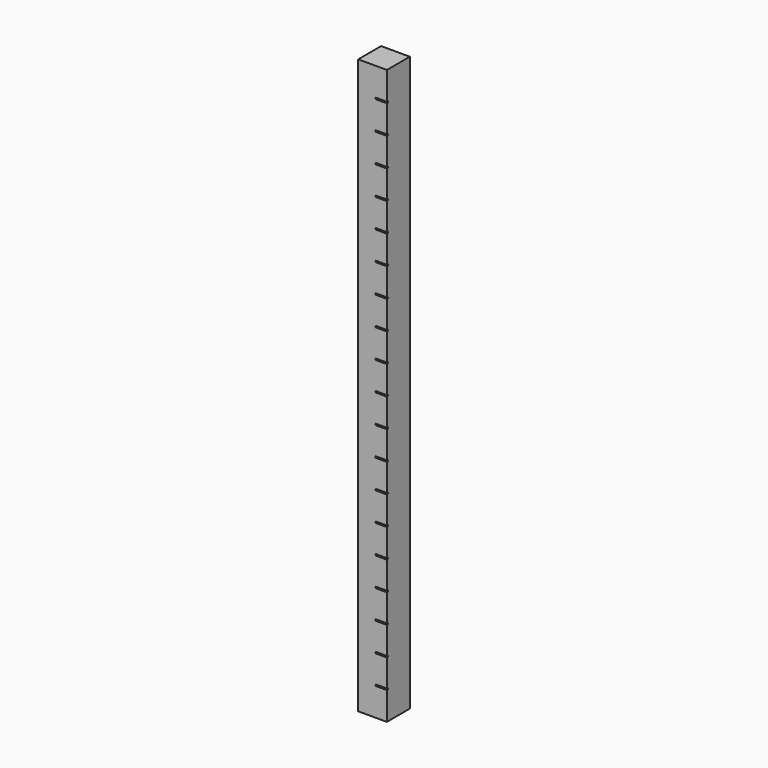
from build123d import *

# Parameters (mm, degrees)
F0_W     = 10
F0_H     = 10
F1_DEPTH = 200
F2_W     = 4
F2_H     = 0.5
F3_DEPTH = 0.5


with BuildPart() as f1:
    # F0 (on Top) → F1 (new body)
    with BuildSketch(Plane.XY):
        with Locations((5, 5)):
            Rectangle(F0_W, F0_H)
    extrude(amount=F1_DEPTH)

    # F2 (on face) → F3 (cut)
    with BuildSketch(Plane.XZ):
        Polygon((6, 9.75), (10, 9.75), (10, 10), (10, 10.25), (6, 10.25), align=None)
        with Locations((8, 20)):
            Rectangle(F2_W, F2_H)
        with Locations((8, 30)):
            Rectangle(F2_W, F2_H)
        with Locations((8, 40)):
            Rectangle(F2_W, F2_H)
        with Locations((8, 50)):
            Rectangle(F2_W, F2_H)
        with Locations((8, 60)):
            Rectangle(F2_W, F2_H)
        with Locations((8, 70)):
            Rectangle(F2_W, F2_H)
        with Locations((8, 80)):
            Rectangle(F2_W, F2_H)
        with Locations((8, 90)):
            Rectangle(F2_W, F2_H)
        with Locations((8, 100)):
            Rectangle(F2_W, F2_H)
        with Locations((8, 110)):
            Rectangle(F2_W, F2_H)
        with Locations((8, 120)):
            Rectangle(F2_W, F2_H)
        with Locations((8, 130)):
            Rectangle(F2_W, F2_H)
        with Locations((8, 140)):
            Rectangle(F2_W, F2_H)
        with Locations((8, 150)):
            Rectangle(F2_W, F2_H)
        with Locations((8, 160)):
            Rectangle(F2_W, F2_H)
        with Locations((8, 170)):
            Rectangle(F2_W, F2_H)
        with Locations((8, 180)):
            Rectangle(F2_W, F2_H)
        with Locations((8, 190)):
            Rectangle(F2_W, F2_H)
    extrude(amount=-F3_DEPTH, mode=Mode.SUBTRACT)


solid = f1.part
